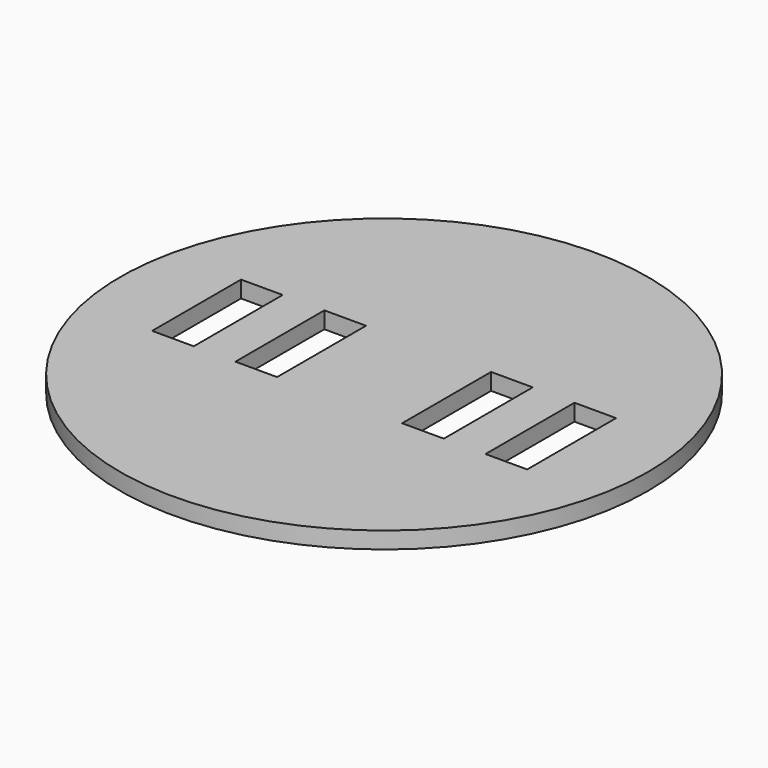
from build123d import *

# Parameters (mm, degrees)
F0_R     = 19
F0_W     = 3
F0_H     = 8
F1_DEPTH = 1.2


with BuildPart() as f1:
    # F0 (on Top) → F1 (new body)
    with BuildSketch(Plane.XY):
        Circle(F0_R)
        with Locations((-12, 0)):
            Rectangle(F0_W, F0_H, mode=Mode.SUBTRACT)
        with Locations((-6, 0)):
            Rectangle(F0_W, F0_H, mode=Mode.SUBTRACT)
        with Locations((6, 0)):
            Rectangle(F0_W, F0_H, mode=Mode.SUBTRACT)
        with Locations((12, 0)):
            Rectangle(F0_W, F0_H, mode=Mode.SUBTRACT)
    extrude(amount=F1_DEPTH)


solid = f1.part
